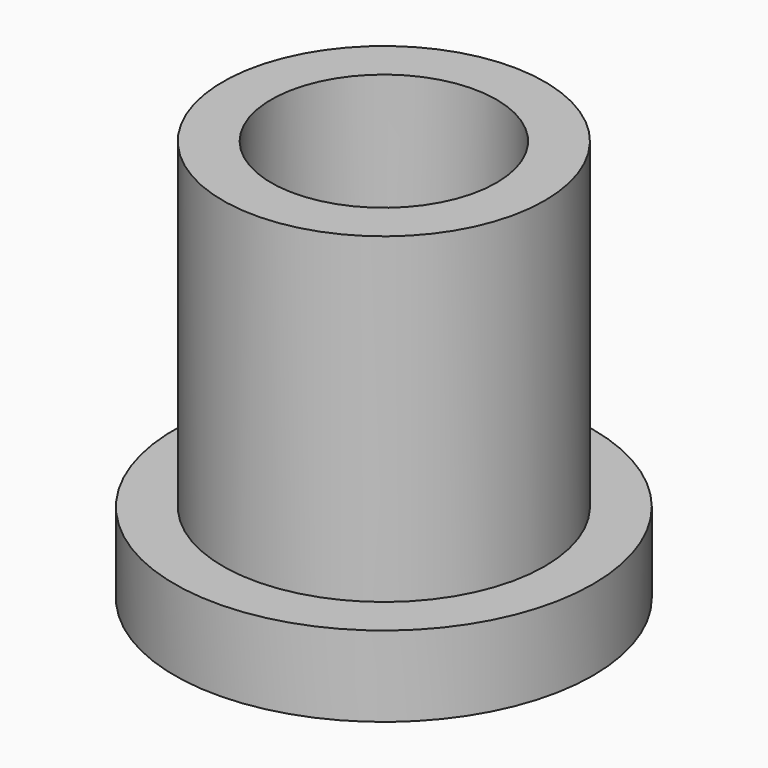
from build123d import *

# Parameters (mm, degrees)
F0_R     = 10
F0_R_2   = 13
F1_DEPTH = 5
F2_DEPTH = 25


with BuildPart() as f1:
    # F0 (on Top) → F1 (new body)
    with BuildSketch(Plane.XY):
        Circle(F0_R)
        Circle(F0_R_2)
        Circle(F0_R, mode=Mode.SUBTRACT)
    extrude(amount=F1_DEPTH)

    # F0 (on Top) → F2 (join)
    with BuildSketch(Plane.XY):
        Circle(F0_R)
    extrude(amount=F2_DEPTH)

    # F3 (on Front) → F4 (revolve, cut)
    with BuildSketch(Plane.XZ):
        with BuildLine():
            Line((7, 25), (0, 25))
            Line((0, 25), (0, 7))
            ThreePointArc((0, 7), (4.949747, 9.050253), (7, 14))
            Line((7, 14), (7, 25))
        make_face()
    revolve(axis=Axis((0, 0, 16), (0, 0, -1)), mode=Mode.SUBTRACT)


solid = f1.part
